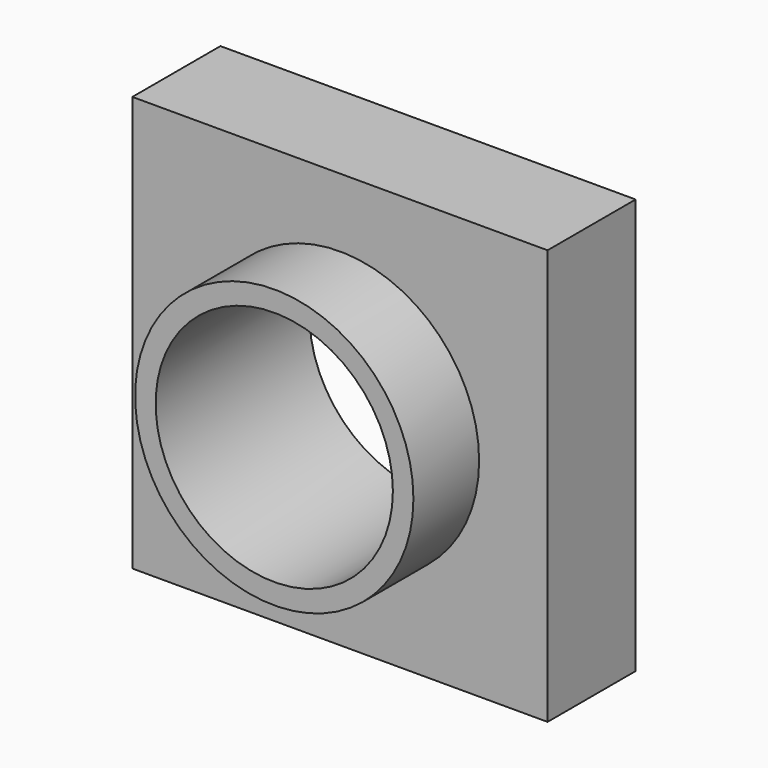
from build123d import *

# Parameters (mm, degrees)
F0_W     = 128.39678
F0_H     = 128.39675
F1_DEPTH = 34.036
F2_R     = 43.0305
F3_DEPTH = 25.4
F4_R     = 36.680501
F5_DEPTH = 94.742


with BuildPart() as f1:
    # F0 (on Front) → F1 (new body)
    with BuildSketch(Plane.XZ):
        Rectangle(F0_W, F0_H)
    extrude(amount=F1_DEPTH)

    # F2 (on face) → F3 (join)
    with BuildSketch(Plane.XZ.offset(34.036)):
        Circle(F2_R)
    extrude(amount=F3_DEPTH)

    # F4 (on face) → F5 (cut)
    with BuildSketch(Plane.XZ.offset(59.436)):
        Circle(F4_R)
    extrude(amount=-F5_DEPTH, mode=Mode.SUBTRACT)


solid = f1.part
